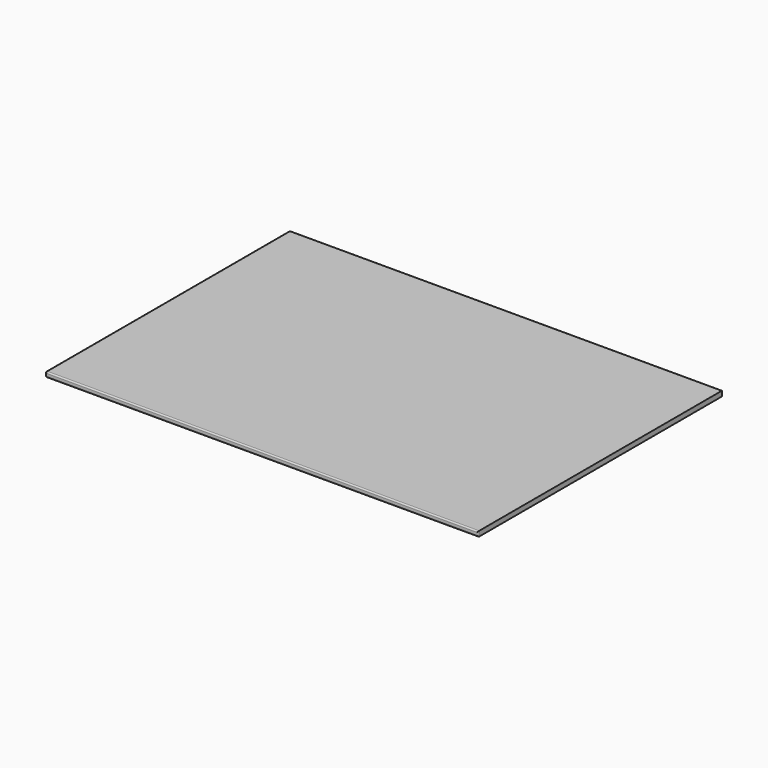
from build123d import *

# Parameters (mm, degrees)
SKETCH_W  = 170
SKETCH_H  = 120
PAD_DEPTH = 2
FILLET_R  = 0.5


with BuildPart() as part:
    # Sketch → Pad (new body)
    with BuildSketch(Plane.XY):
        with Locations((11.420865, 0.524284)):
            Rectangle(SKETCH_W, SKETCH_H)
    extrude(amount=PAD_DEPTH)

    # Fillet
    fillet_edges = [part.edges().sort_by_distance(p)[0] for p in [
        (96.420865, -59.475716, 1),
        (96.420865, 60.524284, 1),
        (11.420865, 60.524284, 0),
        (11.420865, 60.524284, 2),
        (-73.579135, 0.524284, 2),
        (-73.579135, 0.524284, 0),
        (-73.579135, -59.475716, 1),
        (-73.579135, 60.524284, 1),
        (11.420865, -59.475716, 0),
        (11.420865, -59.475716, 2),
    ]]
    fillet(fillet_edges, radius=FILLET_R)


solid = part.part
